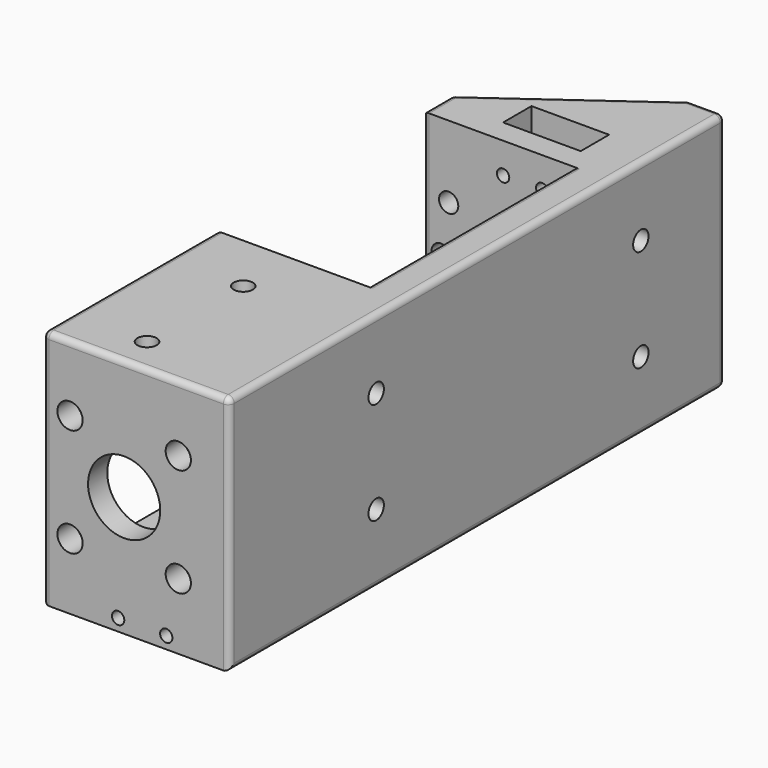
from build123d import *

# Parameters (mm, degrees)
SKETCH_W               = 51
SKETCH_H               = 40
PAD_DEPTH              = 6
SKETCH002_W            = 4
SKETCH002_H            = 40
PAD001_DEPTH           = 25
PAD009_DEPTH           = 20
SKETCH031_W            = 5.9
SKETCH031_H            = 12.9
POCKET009_DEPTH        = 40
PAD010_DEPTH           = 12
SKETCH032_R            = 1.6
SKETCH032_R_2          = 1.025
POCKET010_DEPTH        = 5
SKETCH033_R            = 1.6
POCKET011_DEPTH        = 5
POCKET012_DEPTH        = 5
SKETCH042_R            = 1.6
POCKET019_DEPTH        = 5
SKETCH043_R            = 1.025
POCKET020_DEPTH        = 5
LINEARPATTERN004_COUNT = 2
LINEARPATTERN004_PITCH = 32
SKETCH044_W            = 4
SKETCH044_H            = 32
PAD015_DEPTH           = 27
SKETCH045_R            = 6
SKETCH045_R_2          = 2.1
POCKET021_DEPTH        = 5
FILLET001_R            = 1


with BuildPart() as part:
    # Sketch → Pad (new body)
    with BuildSketch(Plane.YZ):
        Rectangle(SKETCH_W, SKETCH_H)
    extrude(amount=PAD_DEPTH)

    # Sketch002 (on Face5 of Pad) → Pad001 (join)
    with BuildSketch(Plane(origin=(0, 0, 0), x_dir=(0, 1, 0), z_dir=(-1, 0, 0))):
        with Locations((23.5, 0)):
            Rectangle(SKETCH002_W, SKETCH002_H)
        with Locations((-23.5, 0)):
            Rectangle(SKETCH002_W, SKETCH002_H)
    extrude(amount=PAD001_DEPTH)

    # Sketch030 (on Face9 of Pad001) → Pad009 (join)
    with BuildSketch(Plane.ZX.offset(25.5)):
        Polygon((-16, -25), (-20, -25), (-20, 6), (20, 6), (20, -25), (16, -25), (16, 2), (-16, 2), align=None)
    pad009 = extrude(amount=PAD009_DEPTH)

    # Sketch031 (on Face12 of Pad009) → Pocket009 (cut)
    with BuildSketch(Plane.YX.offset(20)):
        Polygon((27.5, -25), (45.5, 0), (45.5, -25), align=None)
        with Locations((28.45, -8.45)):
            Rectangle(SKETCH031_W, SKETCH031_H)
    extrude(amount=-POCKET009_DEPTH, mode=Mode.SUBTRACT)

    # Mirrored: Pad009 across XZ
    add(pad009.mirror(Plane.XZ))

    # Mirrored Face21 → Pad010 (add)
    with BuildSketch(Plane(origin=(-4.904255, -45.5, 0), x_dir=(-1, 0, 0), z_dir=(0, -1, 0))):
        Polygon((20.095745, 16), (20.095745, 20), (-10.904255, 20), (-10.904255, -20), (20.095745, -20), (20.095745, -16), (-6.904255, -16), (-6.904255, 16), align=None)
    extrude(amount=PAD010_DEPTH)

    # Sketch032 (on Face19 of Pad010) → Pocket010 (cut)
    with BuildSketch(Plane(origin=(0, -25.5, 0), x_dir=(0, 0, -1), z_dir=(0, -1, 0))):
        with Locations((-8, -5.75)):
            Circle(SKETCH032_R)
        with Locations((8, -5.75)):
            Circle(SKETCH032_R)
        with Locations((8, -20.75)):
            Circle(SKETCH032_R)
        with Locations((-8, -20.75)):
            Circle(SKETCH032_R)
        with Locations((-14.9, -5.2)):
            Circle(SKETCH032_R_2)
        with Locations((-14.9, -11.7)):
            Circle(SKETCH032_R_2)
        with Locations((14.9, -5.2)):
            Circle(SKETCH032_R_2)
        with Locations((14.9, -11.7)):
            Circle(SKETCH032_R_2)
        with Locations((0, -16)):
            Circle(SKETCH032_R)
        with Locations((0, -22)):
            Circle(SKETCH032_R)
    pocket010 = extrude(amount=-POCKET010_DEPTH, mode=Mode.SUBTRACT)

    # Mirrored001: Pocket010 across XZ
    add(pocket010.mirror(Plane.XZ), mode=Mode.SUBTRACT)

    # Sketch033 (on Face30 of Mirrored001) → Pocket011 (cut)
    with BuildSketch(Plane.YZ.offset(6)):
        with Locations((-27, 8.5)):
            Circle(SKETCH033_R)
        with Locations((28, 8.5)):
            Circle(SKETCH033_R)
        with Locations((28, -8.5)):
            Circle(SKETCH033_R)
        with Locations((-27, -8.5)):
            Circle(SKETCH033_R)
    extrude(amount=-POCKET011_DEPTH, mode=Mode.SUBTRACT)

    # Sketch034 (on Face48 of Pocket011) → Pocket012 (cut)
    with BuildSketch(Plane(origin=(2, 0, 0), x_dir=(0, 1, 0), z_dir=(-1, 0, 0))):
        Polygon((-27.5, -5.42), (-30.167358, -6.96), (-30.167358, -10.04), (-27.5, -11.58), (-24.832642, -10.04), (-24.832642, -6.96), align=None)
    extrude(amount=POCKET012_DEPTH, mode=Mode.SUBTRACT)

    # Sketch042 (on Face13 of Pocket012) → Pocket019 (cut)
    with BuildSketch(Plane.YX.offset(20)):
        with Locations((-31.5, -12.5)):
            Circle(SKETCH042_R)
        with Locations((-51.5, -12.5)):
            Circle(SKETCH042_R)
    pocket019 = extrude(amount=-POCKET019_DEPTH, mode=Mode.SUBTRACT)

    # Mirrored005: Pocket019 across XY
    add(pocket019.mirror(Plane.XY), mode=Mode.SUBTRACT)

    # Sketch043 (on Face27 of Mirrored005) → Pocket020 (cut)
    with BuildSketch(Plane.ZX.offset(-21.5)):
        with Locations((-18, -12.5)):
            Circle(SKETCH043_R)
        with Locations((-18, -4.5)):
            Circle(SKETCH043_R)
    pocket020 = extrude(amount=-POCKET020_DEPTH, mode=Mode.SUBTRACT)

    # LinearPattern004: Pocket020 ×2
    with Locations(*[(0, -i * LINEARPATTERN004_PITCH, 0) for i in range(1, LINEARPATTERN004_COUNT)]):
        add(pocket020, mode=Mode.SUBTRACT)

    # Sketch044 (on Face54 of LinearPattern004) → Pad015 (join)
    with BuildSketch(Plane(origin=(2, 0, 0), x_dir=(0, 1, 0), z_dir=(-1, 0, 0))):
        with Locations((-55.5, 0)):
            Rectangle(SKETCH044_W, SKETCH044_H)
    extrude(amount=PAD015_DEPTH)

    # Sketch045 (on Face64 of Pad015) → Pocket021 (cut)
    with BuildSketch(Plane(origin=(0, -57.5, 0), x_dir=(0, 0, -1), z_dir=(0, -1, 0))):
        with Locations((0, -11.5)):
            Circle(SKETCH045_R)
        with Locations((-9, -2.5)):
            Circle(SKETCH045_R_2)
        with Locations((9, -2.5)):
            Circle(SKETCH045_R_2)
        with Locations((9, -20.5)):
            Circle(SKETCH045_R_2)
        with Locations((-9, -20.5)):
            Circle(SKETCH045_R_2)
    extrude(amount=-POCKET021_DEPTH, mode=Mode.SUBTRACT)

    # Fillet001
    fillet001_edges = [part.edges().sort_by_distance(p)[0] for p in [
        (-25, -57.5, 0),
        (6, -6, -20),
        (-9.5, -57.5, 20),
        (6, -6, 20),
        (-25, -39.5, 20),
        (-25, -39.5, -20),
        (-25, -21.5, 0),
        (-25, 27.5, -18),
        (-12.5, 36.5, -20),
        (-25, 25.5, 0),
        (-25, 27.5, 18),
        (3, 45.5, -20),
        (3, 45.5, 20),
        (-12.5, 36.5, 20),
        (0, 0, 20),
        (0, 0, -20),
        (6, -57.5, 0),
        (-25, 24.5, 20),
        (-25, 24.5, -20),
        (-25, 21.5, 0),
        (2, 45.5, 0),
        (-12.5, 36.5, 16),
        (-12.5, 36.5, -16),
        (0, 45.5, -18),
        (0, 45.5, 18),
        (1, 45.5, 16),
        (6, 45.5, 0),
    ]]
    fillet(fillet001_edges, radius=FILLET001_R)


with BuildPart() as part_1:
    # Body placement: moved
    add(part.part.moved(Location((13, 0, 108))))


solid = part_1.part
